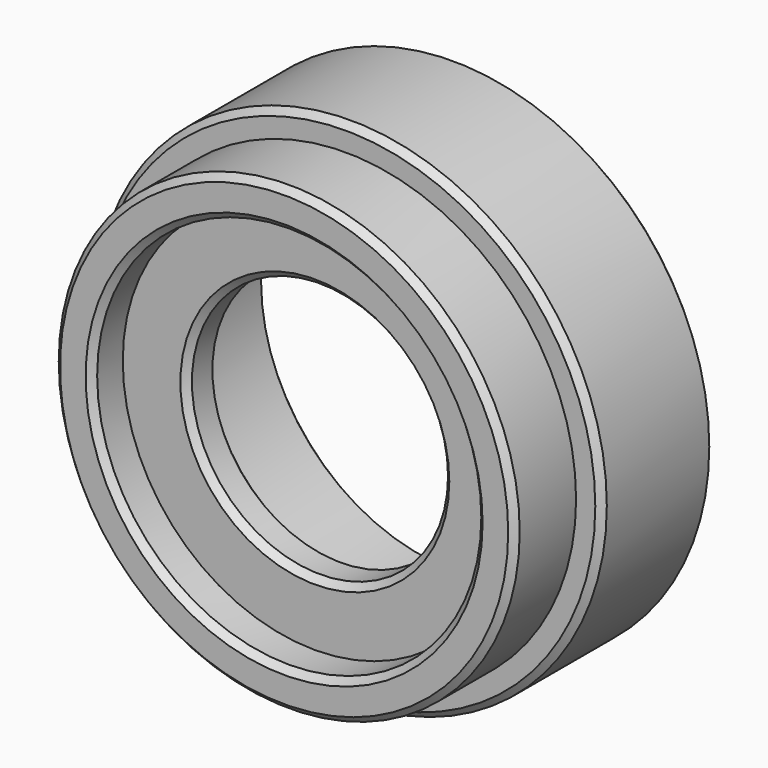
from build123d import *

# Parameters (mm, degrees)
F0_R     = 20
F0_R_2   = 18
F1_DEPTH = 11
F0_R_3   = 15
F2_DEPTH = 17
F0_R_4   = 10
F3_DEPTH = 14
F4_R     = 15
F5_DEPTH = 11
F6_SIZE2 = 0.5
F6_SIZE  = 0.5


with BuildPart() as f1:
    # F0 (on Front) → F1 (new body)
    with BuildSketch(Plane.XZ):
        Circle(F0_R)
        Circle(F0_R_2, mode=Mode.SUBTRACT)
    extrude(amount=F1_DEPTH)

    # F0 (on Front) → F2 (join)
    with BuildSketch(Plane.XZ):
        Circle(F0_R_2)
        Circle(F0_R_3, mode=Mode.SUBTRACT)
    extrude(amount=F2_DEPTH)

    # F0 (on Front) → F3 (join)
    with BuildSketch(Plane.XZ):
        Circle(F0_R_3)
        Circle(F0_R_4, mode=Mode.SUBTRACT)
    extrude(amount=F3_DEPTH)

    # F4 (on face) → F5 (cut)
    with BuildSketch(Plane(origin=(0, 0, 0), x_dir=(-1, 0, 0), z_dir=(0, 1, 0))):
        Circle(F4_R)
    extrude(amount=-F5_DEPTH, mode=Mode.SUBTRACT)

    # F6
    f6_edges = [f1.edges().sort_by_distance(p)[0] for p in [
        (-15, -17, 0),
        (-18, -17, 0),
        (-10, -14, 0),
        (-20, -11, 0),
        (-20, 0, 0),
        (15, 0, 0),
        (-10, -11, 0),
    ]]
    chamfer(f6_edges, length=F6_SIZE, length2=F6_SIZE2)


solid = f1.part
